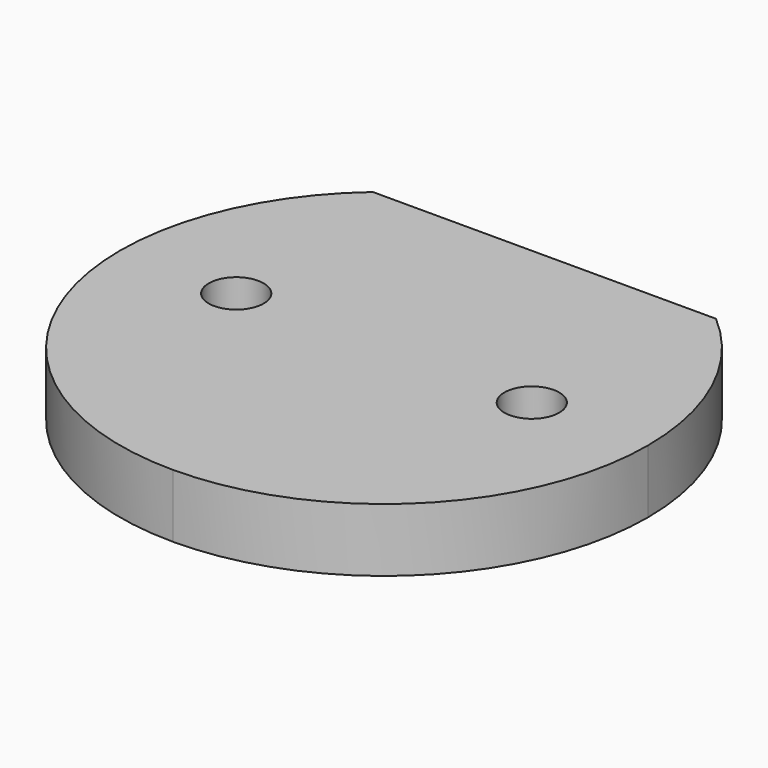
from build123d import *

# Parameters (mm, degrees)
F1_DEPTH = 15
F2_W     = 81.2403840464
F2_H     = 7.5
F3_DEPTH = 15
F4_DEPTH = 0.62
F5_DEPTH = 0.62


with BuildPart() as f1:
    # F0 (on Top) → F1 (new body)
    with BuildSketch(Plane.XY):
        with BuildLine():
            Line((-8.2947787642, 47.5), (-8.2947787642, 0))
            Line((-8.2947787642, 0), (20.2052212358, 0))
            ThreePointArc((20.2052212358, 0), (26.7052212358, 6.5), (33.2052212358, 0))
            Line((33.2052212358, 0), (54.2052212358, 0))
            ThreePointArc((54.2052212358, 0), (48.4723420076, 26.148498987), (32.3254132589, 47.5))
            Line((32.3254132589, 47.5), (-8.2947787642, 47.5))
        make_face()
        with BuildLine():
            Line((20.2052212358, 0), (-8.2947787642, 0))
            Line((-8.2947787642, 0), (-8.2947787642, -62.5))
            ThreePointArc((-8.2947787642, -62.5), (35.8993950599, -44.1941738242), (54.2052212358, 0))
            Line((54.2052212358, 0), (33.2052212358, 0))
            ThreePointArc((33.2052212358, 0), (26.7052212358, -6.5), (20.2052212358, 0))
        make_face()
        with BuildLine():
            Line((-8.2947787642, 0), (-36.7947787642, 0))
            ThreePointArc((-36.7947787642, 0), (-43.2947787642, -6.5), (-49.7947787642, 0))
            Line((-49.7947787642, 0), (-70.7947787642, 0))
            ThreePointArc((-70.7947787642, 0), (-52.4889525884, -44.1941738242), (-8.2947787642, -62.5))
            Line((-8.2947787642, -62.5), (-8.2947787642, 0))
        make_face()
        with BuildLine():
            ThreePointArc((-49.7947787642, 0), (-43.2947787642, 6.5), (-36.7947787642, 0))
            Line((-36.7947787642, 0), (-8.2947787642, 0))
            Line((-8.2947787642, 0), (-8.2947787642, 47.5))
            Line((-8.2947787642, 47.5), (-48.9149707874, 47.5))
            ThreePointArc((-48.9149707874, 47.5), (-65.0618995361, 26.148498987), (-70.7947787642, 0))
            Line((-70.7947787642, 0), (-49.7947787642, 0))
        make_face()
    extrude(amount=F1_DEPTH)

    # F2 (on face) → F3 (cut)
    with BuildSketch(Plane(origin=(0, 47.5, 0), x_dir=(-1, 0, 0), z_dir=(0, 1, 0))):
        with Locations((8.2947787642, 3.75)):
            Rectangle(F2_W, F2_H)
    extrude(amount=-F3_DEPTH, mode=Mode.SUBTRACT)

    # F4 (add): a face of the model
    f4_faces = [f1.faces().sort_by_distance(p)[0] for p in [
        (-48.9149707874, 40, 3.75),
    ]]
    extrude(f4_faces, amount=F4_DEPTH)

    # F5 (add): a face of the model
    f5_faces = [f1.faces().sort_by_distance(p)[0] for p in [
        (32.3254132589, 40, 3.75),
    ]]
    extrude(f5_faces, amount=F5_DEPTH)


solid = f1.part
